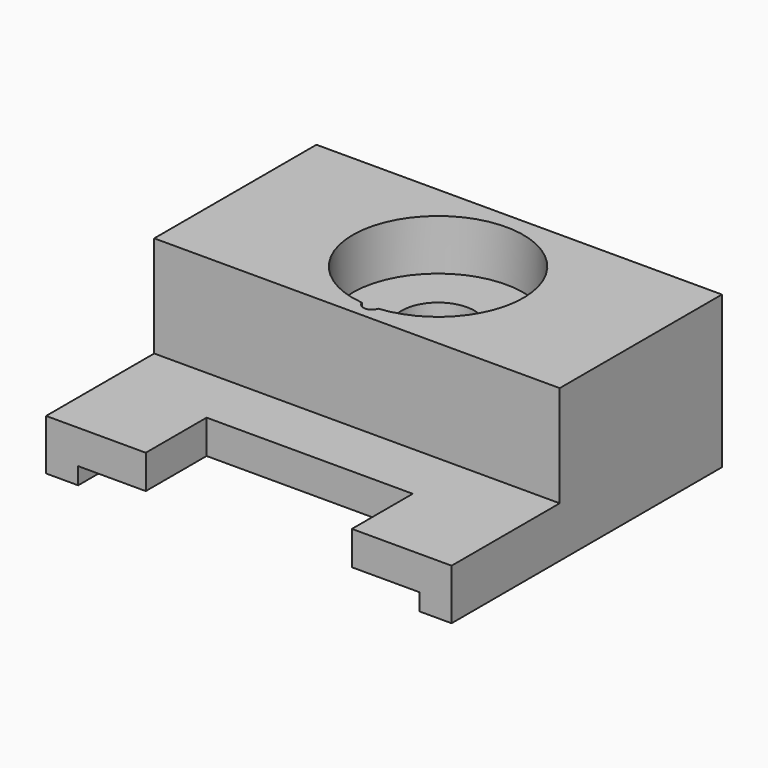
from build123d import *

# Parameters (mm, degrees)
CYLINDER_R        = 0.5
CYLINDER_DEPTH    = 8
CYLINDER006_R     = 0.5
CYLINDER006_DEPTH = 3
CYLINDER008_R     = 5.05
CYLINDER008_DEPTH = 3
CYLINDER007_R     = 2.15
CYLINDER007_DEPTH = 8
BOX006_W          = 1.9
BOX006_H          = 20
BOX006_DEPTH      = 1
BOX007_W          = 1.9
BOX007_H          = 20
BOX007_DEPTH      = 1
BOX_W             = 24
BOX_H             = 12
BOX_DEPTH         = 8
BOX001_W          = 12.2
BOX001_H          = 4.5
BOX001_DEPTH      = 2
BOX002_W          = 24
BOX002_H          = 20
BOX002_DEPTH      = 2


with BuildPart() as cylinder:
    # Cylinder → Cylinder (new body)
    with BuildSketch(Plane(origin=(0, 7, 0), x_dir=(1, 0, 0), z_dir=(0, 0, 1))):
        Circle(CYLINDER_R)
    extrude(amount=CYLINDER_DEPTH)


with BuildPart() as cylinder006:
    # Cylinder006 → Cylinder006 (new body)
    with BuildSketch(Plane(origin=(0, 4.1, 5), x_dir=(1, 0, 0), z_dir=(0, 0, 1))):
        Circle(CYLINDER006_R)
    extrude(amount=CYLINDER006_DEPTH)


with BuildPart() as cylinder008:
    # Cylinder008 → Cylinder008 (new body)
    with BuildSketch(Plane(origin=(0, 9, 5), x_dir=(1, 0, 0), z_dir=(0, 0, 1))):
        Circle(CYLINDER008_R)
    extrude(amount=CYLINDER008_DEPTH)


with BuildPart() as fusion003004:
    # Cylinder007 → Cylinder007 (new body)
    with BuildSketch(Plane(origin=(0, 9, 0), x_dir=(1, 0, 0), z_dir=(0, 0, 1))):
        Circle(CYLINDER007_R)
    extrude(amount=CYLINDER007_DEPTH)

    # Fusion003004: union Cylinder008
    add(cylinder008.part)


with BuildPart() as cube006:
    # Box006 → Box006 (new body)
    with BuildSketch(Plane(origin=(-12, -5, -1), x_dir=(1, 0, 0), z_dir=(0, 0, 1))):
        with Locations((0.95, 10)):
            Rectangle(BOX006_W, BOX006_H)
    extrude(amount=BOX006_DEPTH)


with BuildPart() as cube007:
    # Box007 → Box007 (new body)
    with BuildSketch(Plane(origin=(10.1, -5, -1), x_dir=(1, 0, 0), z_dir=(0, 0, 1))):
        with Locations((0.95, 10)):
            Rectangle(BOX007_W, BOX007_H)
    extrude(amount=BOX007_DEPTH)


with BuildPart() as cube:
    # Box → Box (new body)
    with BuildSketch(Plane(origin=(-12, 3, 0), x_dir=(1, 0, 0), z_dir=(0, 0, 1))):
        with Locations((12, 6)):
            Rectangle(BOX_W, BOX_H)
    extrude(amount=BOX_DEPTH)


with BuildPart() as ref:
    # Box001 → Box001 (new body)
    with BuildSketch(Plane(origin=(-6.1, -5, 0), x_dir=(1, 0, 0), z_dir=(0, 0, 1))):
        with Locations((6.1, 2.25)):
            Rectangle(BOX001_W, BOX001_H)
    extrude(amount=BOX001_DEPTH)


with BuildPart() as head_align_r1:
    # Box002 → Box002 (new body)
    with BuildSketch(Plane(origin=(-12, -5, 0), x_dir=(1, 0, 0), z_dir=(0, 0, 1))):
        with Locations((12, 10)):
            Rectangle(BOX002_W, BOX002_H)
    extrude(amount=BOX002_DEPTH)

    # Cut: cut ref
    add(ref.part, mode=Mode.SUBTRACT)

    # Fusion: union Cube
    add(cube.part)

    # Fusion003003: union Cube006, Cube007
    add(cube006.part)
    add(cube007.part)

    # Cut001005: cut Fusion003004
    add(fusion003004.part, mode=Mode.SUBTRACT)

    # Cut001006: cut Cylinder006
    add(cylinder006.part, mode=Mode.SUBTRACT)

    # Cut001007: cut Cylinder
    add(cylinder.part, mode=Mode.SUBTRACT)


solid = head_align_r1.part
